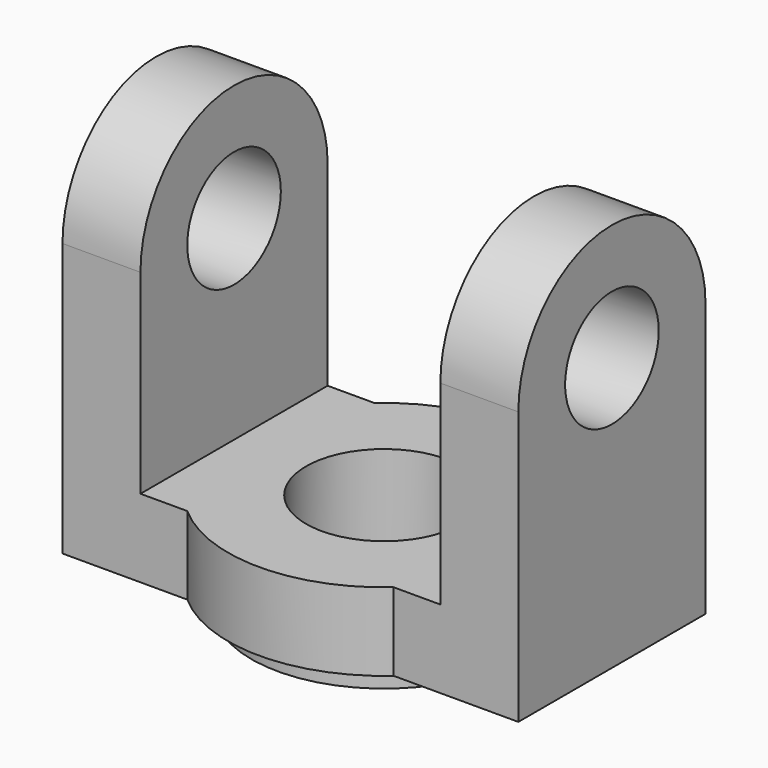
from build123d import *

# Parameters (mm, degrees)
F1_DEPTH  = 10
F3_DEPTH  = 10
F5_DEPTH  = 10
F6_R      = 10
F7_DEPTH  = 10.001
F8_R      = 17
F8_R_2    = 10
F9_DEPTH  = 3
F10_R     = 7.5
F11_DEPTH = 58.4585131106


with BuildPart() as f1:
    # F0 (on Top) → F1 (new body)
    with BuildSketch(Plane.XY):
        with BuildLine():
            Line((-29.2287565553, 15), (-29.2287565553, -15))
            Line((-29.2287565553, -15), (-13.2287565553, -15))
            ThreePointArc((-13.2287565553, -15), (0, -20), (13.2287565553, -15))
            Line((13.2287565553, -15), (29.2287565553, -15))
            Line((29.2287565553, -15), (29.2287565553, 15))
            Line((29.2287565553, 15), (13.2287565553, 15))
            ThreePointArc((13.2287565553, 15), (0, 20), (-13.2287565553, 15))
            Line((-13.2287565553, 15), (-29.2287565553, 15))
        make_face()
    extrude(amount=F1_DEPTH)

    # F2 (on face) → F3 (join)
    with BuildSketch(Plane.YZ.offset(29.2287565553)):
        with BuildLine():
            Line((-15, 35), (-15, 10))
            Line((-15, 10), (15, 10))
            Line((15, 10), (15, 35))
            ThreePointArc((15, 35), (0, 50), (-15, 35))
        make_face()
    extrude(amount=-F3_DEPTH)

    # F4 (on face) → F5 (join)
    with BuildSketch(Plane(origin=(-29.2287565553, 0, 0), x_dir=(0, -1, 0), z_dir=(-1, 0, 0))):
        with BuildLine():
            Line((-15, 35), (-15, 10))
            Line((-15, 10), (15, 10))
            Line((15, 10), (15, 35))
            ThreePointArc((15, 35), (0, 50), (-15, 35))
        make_face()
    extrude(amount=-F5_DEPTH)

    # F6 (on face) → F7 (cut, through all)
    with BuildSketch(Plane.XY.offset(10)):
        Circle(F6_R)
    extrude(amount=-F7_DEPTH, mode=Mode.SUBTRACT)

    # F8 (on face) → F9 (join)
    with BuildSketch(Plane(origin=(0, 0, 0), x_dir=(1, 0, 0), z_dir=(0, 0, -1))):
        Circle(F8_R)
        Circle(F8_R_2, mode=Mode.SUBTRACT)
    extrude(amount=F9_DEPTH)

    # F10 (on face) → F11 (cut, through all)
    with BuildSketch(Plane.YZ.offset(29.2287565553)):
        with Locations((0, 35)):
            Circle(F10_R)
    extrude(amount=-F11_DEPTH, mode=Mode.SUBTRACT)


solid = f1.part
